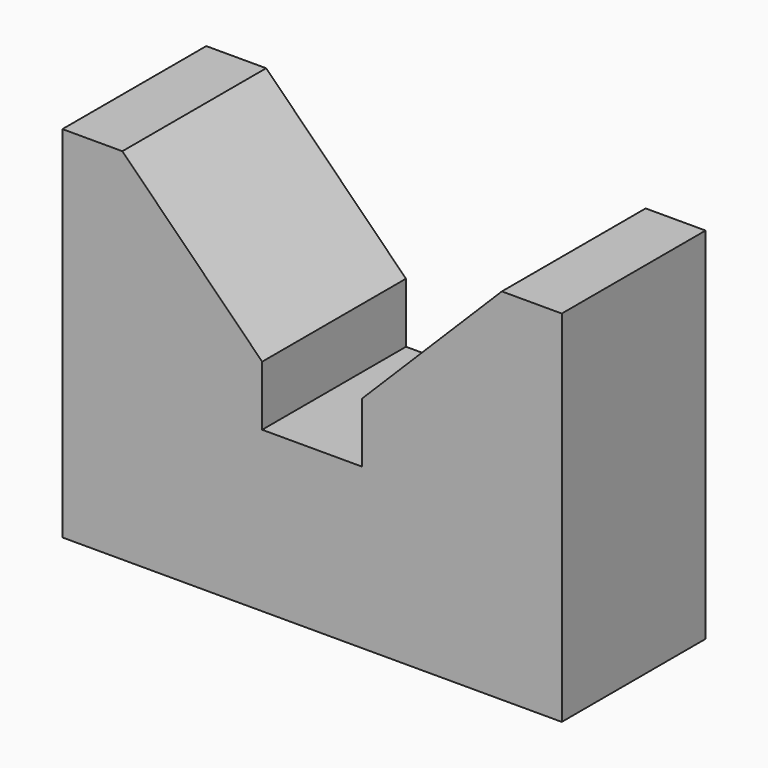
from build123d import *

# Parameters (mm, degrees)
F1_DEPTH = 4.5
F3_D     = 2.5
F3_DEPTH = 7
F3_TIP   = 0.7510757738


with BuildPart() as f1:
    # F0 (on Front) → F1 (new body, symmetric)
    with BuildSketch(Plane.XZ):
        Polygon((0, 8), (0, 0), (12.5, 0), (12.5, 18), (9.5, 18), (2.5, 11), (2.5, 8), align=None)
    extrude(amount=F1_DEPTH, both=True)

    # F3
    with Locations(Plane(origin=(0, 0, 0), x_dir=(1, 0, 0), z_dir=(0, 0, -1))):
        with Locations((5, 0)):
            Hole(F3_D / 2, depth=F3_DEPTH)
            with Locations((0, 0, -(F3_DEPTH + F3_TIP / 2))):  # 118° drill point
                Cone(0, F3_D / 2, F3_TIP, mode=Mode.SUBTRACT)

    # F4: F1 across plane


with BuildPart() as f1_1:
    add(f1.part)
    add(f1.part.mirror(Plane.YZ))


solid = f1_1.part
